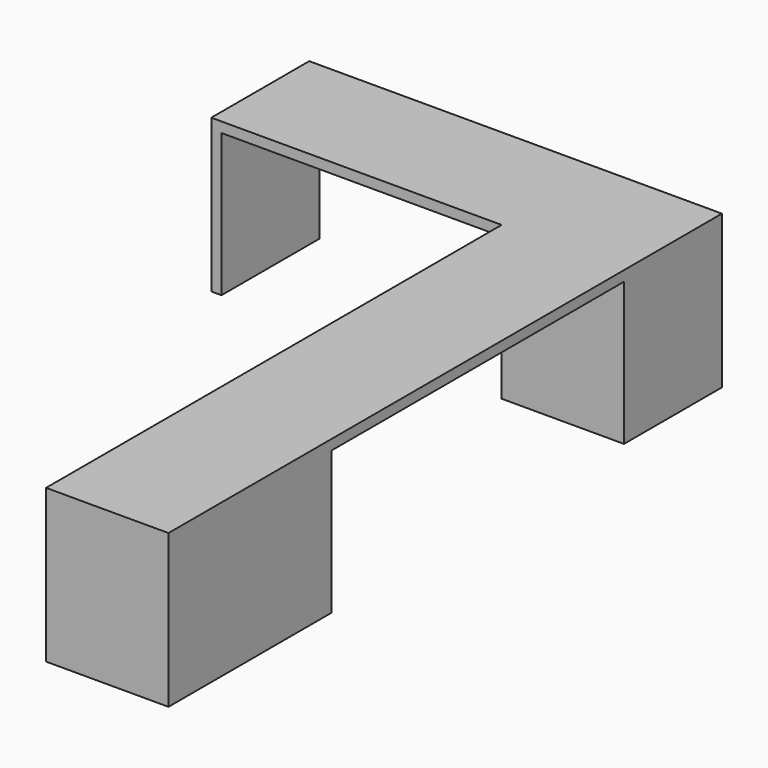
from build123d import *

# Parameters (mm, degrees)
F1_DEPTH = 50
F2_W     = 50
F2_H     = 600
F2_W_2   = 600
F2_H_2   = 1000
F3_DEPTH = 700


with BuildPart() as f1:
    # F0 (on Top) → F1 (new body)
    with BuildSketch(Plane.XY):
        Polygon((-1423, 600), (-1423, 0), (0, 0), (0, -2791), (600, -2791), (600, 600), align=None)
    extrude(amount=-F1_DEPTH)

    # F2 (on face) → F3 (join)
    with BuildSketch(Plane(origin=(0, 0, -50), x_dir=(1, 0, 0), z_dir=(0, 0, -1))):
        with Locations((-1398, -300)):
            Rectangle(F2_W, F2_H)
        with Locations((300, -300)):
            Rectangle(F2_W_2, F2_H)
        with Locations((300, 2291)):
            Rectangle(F2_W_2, F2_H_2)
    extrude(amount=F3_DEPTH)


solid = f1.part
